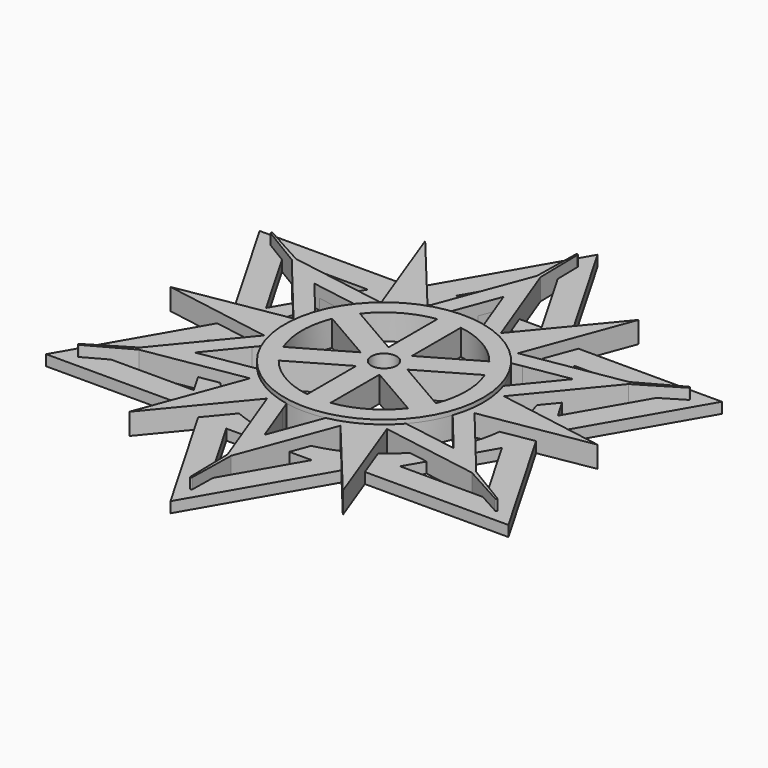
from build123d import *

# Parameters (mm, degrees)
F0_R          = 6
F1_DEPTH      = 0.5
F3_DEPTH      = 1
F4_R          = 4.65
F5_DEPTH      = 0.2
F5_DEPTH_BACK = 1
F6_R          = 0.5937827899
F7_DEPTH      = 1.2
F9_DEPTH      = 1.001


with BuildPart() as f1:
    # F0 (on Top) → F1 (new body)
    with BuildSketch(Plane.XY):
        Polygon((3.6084391824, 6.25), (0, 12.5), (-3.6084391824, 6.25), align=None)
        Polygon((2, 6.7328579847), (-2, 6.7328579847), (0, 10.1969595999), align=None, mode=Mode.SUBTRACT)
        Polygon((3.6084391824, 6.25), (-3.6084391824, 6.25), (-7.2168783649, 0), (-3.6084391824, -6.25), (3.6084391824, -6.25), (7.2168783649, 0), align=None)
        Circle(F0_R, mode=Mode.SUBTRACT)
        Polygon((-7.2168783649, 0), (-3.6084391824, 6.25), (-10.8253175473, 6.25), align=None)
        Polygon((-8.8308260548, 5.0984797999), (-4.8308260548, 5.0984797999), (-6.8308260548, 1.6343781848), align=None, mode=Mode.SUBTRACT)
        Polygon((10.8253175473, 6.25), (3.6084391824, 6.25), (7.2168783649, 0), align=None)
        Polygon((8.8308260548, 5.0984797999), (6.8308260548, 1.6343781848), (4.8308260548, 5.0984797999), align=None, mode=Mode.SUBTRACT)
        Polygon((-3.6084391824, -6.25), (-7.2168783649, 0), (-10.8253175473, -6.25), align=None)
        Polygon((-8.8308260548, -5.0984797999), (-6.8308260548, -1.6343781848), (-4.8308260548, -5.0984797999), align=None, mode=Mode.SUBTRACT)
        Polygon((10.8253175473, -6.25), (7.2168783649, 0), (3.6084391824, -6.25), align=None)
        Polygon((8.8308260548, -5.0984797999), (4.8308260548, -5.0984797999), (6.8308260548, -1.6343781848), align=None, mode=Mode.SUBTRACT)
        Polygon((3.6084391824, -6.25), (-3.6084391824, -6.25), (0, -12.5), align=None)
        Polygon((0, -10.1969595999), (-2, -6.7328579847), (2, -6.7328579847), align=None, mode=Mode.SUBTRACT)
    extrude(amount=F1_DEPTH)

    # F2 (on Top) → F3 (join)
    with BuildSketch(Plane.XY):
        with BuildLine():
            Line((-0.0845249014, 9.0530012616), (-1.7186464041, 4.6953439211))
            ThreePointArc((-1.7186464041, 4.6953439211), (-2.5, 4.3301270189), (-3.2069639131, 3.8360634066))
            Line((-3.2069639131, 3.8360634066), (-7.7978666224, 4.5997013427))
            Line((-7.7978666224, 4.5997013427), (-9.7480785997, 5.6742345866))
            ThreePointArc((-9.7480785997, 5.6742345866), (-9.8020227951, 5.6592004994), (-9.7880705989, 5.6049664121))
            Line((-9.7880705989, 5.6049664121), (-7.8823915238, 4.4532999189))
            Line((-7.8823915238, 4.4532999189), (-4.9256103173, 0.8592805145))
            ThreePointArc((-4.9256103173, 0.8592805145), (-5, 0), (-4.9256103173, -0.8592805145))
            Line((-4.9256103173, -0.8592805145), (-7.8823915238, -4.4532999189))
            Line((-7.8823915238, -4.4532999189), (-9.7880705989, -5.6049664121))
            ThreePointArc((-9.7880705989, -5.6049664121), (-9.8020227951, -5.6592004994), (-9.7480785997, -5.6742345866))
            Line((-9.7480785997, -5.6742345866), (-7.7978666224, -4.5997013427))
            Line((-7.7978666224, -4.5997013427), (-3.2069639131, -3.8360634066))
            ThreePointArc((-3.2069639131, -3.8360634066), (-2.5, -4.3301270189), (-1.7186464041, -4.6953439211))
            Line((-1.7186464041, -4.6953439211), (-0.0845249014, -9.0530012616))
            Line((-0.0845249014, -9.0530012616), (-0.0399919992, -11.2792009988))
            ThreePointArc((-0.0399919992, -11.2792009988), (0, -11.3184009988), (0.0399919992, -11.2792009988))
            Line((0.0399919992, -11.2792009988), (0.0845249014, -9.0530012616))
            Line((0.0845249014, -9.0530012616), (1.7186464041, -4.6953439211))
            ThreePointArc((1.7186464041, -4.6953439211), (2.5, -4.3301270189), (3.2069639131, -3.8360634066))
            Line((3.2069639131, -3.8360634066), (7.7978666224, -4.5997013427))
            Line((7.7978666224, -4.5997013427), (9.7480785997, -5.6742345866))
            ThreePointArc((9.7480785997, -5.6742345866), (9.8020227951, -5.6592004994), (9.7880705989, -5.6049664121))
            Line((9.7880705989, -5.6049664121), (7.8823915238, -4.4532999189))
            Line((7.8823915238, -4.4532999189), (4.9256103173, -0.8592805145))
            ThreePointArc((4.9256103173, -0.8592805145), (5, 0), (4.9256103173, 0.8592805145))
            Line((4.9256103173, 0.8592805145), (7.8823915238, 4.4532999189))
            Line((7.8823915238, 4.4532999189), (9.7880705989, 5.6049664121))
            ThreePointArc((9.7880705989, 5.6049664121), (9.8020227951, 5.6592004994), (9.7480785997, 5.6742345866))
            Line((9.7480785997, 5.6742345866), (7.7978666224, 4.5997013427))
            Line((7.7978666224, 4.5997013427), (3.2069639131, 3.8360634066))
            ThreePointArc((3.2069639131, 3.8360634066), (2.5, 4.3301270189), (1.7186464041, 4.6953439211))
            Line((1.7186464041, 4.6953439211), (0.0845249014, 9.0530012616))
            Line((0.0845249014, 9.0530012616), (0.0399919992, 11.2792009988))
            ThreePointArc((0.0399919992, 11.2792009988), (0, 11.3184009988), (-0.0399919992, 11.2792009988))
            Line((-0.0399919992, 11.2792009988), (-0.0845249014, 9.0530012616))
        make_face()
        Polygon((-4.7051270189, -1.8504809472), (-3.9551270189, -3.1495190528), (-6.0621778265, -3.5), align=None, mode=Mode.SUBTRACT)
        Polygon((-0.75, -5), (0.75, -5), (0, -7), align=None, mode=Mode.SUBTRACT)
        Polygon((3.9551270189, -3.1495190528), (4.7051270189, -1.8504809472), (6.0621778265, -3.5), align=None, mode=Mode.SUBTRACT)
        Polygon((-3.9551270189, 3.1495190528), (-4.7051270189, 1.8504809472), (-6.0621778265, 3.5), align=None, mode=Mode.SUBTRACT)
        Polygon((4.7051270189, 1.8504809472), (3.9551270189, 3.1495190528), (6.0621778265, 3.5), align=None, mode=Mode.SUBTRACT)
        Polygon((-0.75, 5), (0, 7), (0.75, 5), align=None, mode=Mode.SUBTRACT)
        with BuildLine():
            ThreePointArc((-3.2069639131, 3.8360634066), (-2.5, 4.3301270189), (-1.7186464041, 4.6953439211))
            Line((-1.7186464041, 4.6953439211), (-5, 8.6602540378))
            Line((-5, 8.6602540378), (-3.2069639131, 3.8360634066))
        make_face()
        with BuildLine():
            Line((5, 8.6602540378), (1.7186464041, 4.6953439211))
            ThreePointArc((1.7186464041, 4.6953439211), (2.5, 4.3301270189), (3.2069639131, 3.8360634066))
            Line((3.2069639131, 3.8360634066), (5, 8.6602540378))
        make_face()
        with BuildLine():
            ThreePointArc((-4.9256103173, -0.8592805145), (-5, 0), (-4.9256103173, 0.8592805145))
            Line((-4.9256103173, 0.8592805145), (-10, 0))
            Line((-10, 0), (-4.9256103173, -0.8592805145))
        make_face()
        with BuildLine():
            Line((10, 0), (4.9256103173, 0.8592805145))
            ThreePointArc((4.9256103173, 0.8592805145), (5, 0), (4.9256103173, -0.8592805145))
            Line((4.9256103173, -0.8592805145), (10, 0))
        make_face()
        with BuildLine():
            ThreePointArc((-1.7186464041, -4.6953439211), (-2.5, -4.3301270189), (-3.2069639131, -3.8360634066))
            Line((-3.2069639131, -3.8360634066), (-5, -8.6602540378))
            Line((-5, -8.6602540378), (-1.7186464041, -4.6953439211))
        make_face()
        with BuildLine():
            Line((5, -8.6602540378), (3.2069639131, -3.8360634066))
            ThreePointArc((3.2069639131, -3.8360634066), (2.5, -4.3301270189), (1.7186464041, -4.6953439211))
            Line((1.7186464041, -4.6953439211), (5, -8.6602540378))
        make_face()
    extrude(amount=F3_DEPTH)

    # F4 (on face) → F5 (join, two sides)
    with BuildSketch(Plane.XY.offset(1)) as f5_sk:
        Circle(F4_R)
    extrude(amount=F5_DEPTH)
    extrude(f5_sk.sketch, amount=-F5_DEPTH_BACK)

    # F6 (on face) → F7 (cut, through all)
    with BuildSketch(Plane.XY.offset(1.2)):
        with BuildLine():
            Line((-0.546891395, 0.9472436823), (-0.546891395, 3.8109591709))
            ThreePointArc((-0.546891395, 3.8109591709), (-1.925, 3.3341978046), (-3.0269417573, 2.3791014266))
            Line((-3.0269417573, 2.3791014266), (-0.546891395, 0.9472436823))
        make_face()
        with BuildLine():
            Line((0.546891395, 3.8109591709), (0.546891395, 0.9472436823))
            Line((0.546891395, 0.9472436823), (3.0269417573, 2.3791014266))
            ThreePointArc((3.0269417573, 2.3791014266), (1.925, 3.3341978046), (0.546891395, 3.8109591709))
        make_face()
        with BuildLine():
            Line((-1.0937827899, 0), (-3.5738331523, 1.4318577443))
            ThreePointArc((-3.5738331523, 1.4318577443), (-3.85, 0), (-3.5738331523, -1.4318577443))
            Line((-3.5738331523, -1.4318577443), (-1.0937827899, 0))
        make_face()
        with BuildLine():
            Line((-0.546891395, -0.9472436823), (-3.0269417573, -2.3791014266))
            ThreePointArc((-3.0269417573, -2.3791014266), (-1.925, -3.3341978046), (-0.546891395, -3.8109591709))
            Line((-0.546891395, -3.8109591709), (-0.546891395, -0.9472436823))
        make_face()
        with BuildLine():
            Line((0.546891395, -0.9472436823), (0.546891395, -3.8109591709))
            ThreePointArc((0.546891395, -3.8109591709), (1.925, -3.3341978046), (3.0269417573, -2.3791014266))
            Line((3.0269417573, -2.3791014266), (0.546891395, -0.9472436823))
        make_face()
        with BuildLine():
            Line((1.0937827899, 0), (3.5738331523, -1.4318577443))
            ThreePointArc((3.5738331523, -1.4318577443), (3.85, 0), (3.5738331523, 1.4318577443))
            Line((3.5738331523, 1.4318577443), (1.0937827899, 0))
        make_face()
        Circle(F6_R)
    extrude(amount=-F7_DEPTH, mode=Mode.SUBTRACT)

    # F8 (on face) → F9 (cut, through all)
    with BuildSketch(Plane.XY.offset(1)):
        with BuildLine():
            Line((0.9153702139, 4.5590127628), (0, 7))
            Line((0, 7), (-0.9153702139, 4.5590127628))
            ThreePointArc((-0.9153702139, 4.5590127628), (0, 4.65), (0.9153702139, 4.5590127628))
        make_face()
        with BuildLine():
            ThreePointArc((-4.4059059757, 1.4867725223), (-4.0270181276, 2.325), (-3.4905357618, 3.0722402405))
            Line((-3.4905357618, 3.0722402405), (-6.0621778265, 3.5))
            Line((-6.0621778265, 3.5), (-4.4059059757, 1.4867725223))
        make_face()
        with BuildLine():
            Line((6.0621778265, 3.5), (3.4905357618, 3.0722402405))
            ThreePointArc((3.4905357618, 3.0722402405), (4.0270181276, 2.325), (4.4059059757, 1.4867725223))
            Line((4.4059059757, 1.4867725223), (6.0621778265, 3.5))
        make_face()
        with BuildLine():
            Line((6.0621778265, -3.5), (4.4059059757, -1.4867725223))
            ThreePointArc((4.4059059757, -1.4867725223), (4.0270181276, -2.325), (3.4905357618, -3.0722402405))
            Line((3.4905357618, -3.0722402405), (6.0621778265, -3.5))
        make_face()
        with BuildLine():
            Line((0, -7), (0.9153702139, -4.5590127628))
            ThreePointArc((0.9153702139, -4.5590127628), (0, -4.65), (-0.9153702139, -4.5590127628))
            Line((-0.9153702139, -4.5590127628), (0, -7))
        make_face()
        with BuildLine():
            Line((-6.0621778265, -3.5), (-3.4905357618, -3.0722402405))
            ThreePointArc((-3.4905357618, -3.0722402405), (-4.0270181276, -2.325), (-4.4059059757, -1.4867725223))
            Line((-4.4059059757, -1.4867725223), (-6.0621778265, -3.5))
        make_face()
    extrude(amount=-F9_DEPTH, mode=Mode.SUBTRACT)


solid = f1.part
